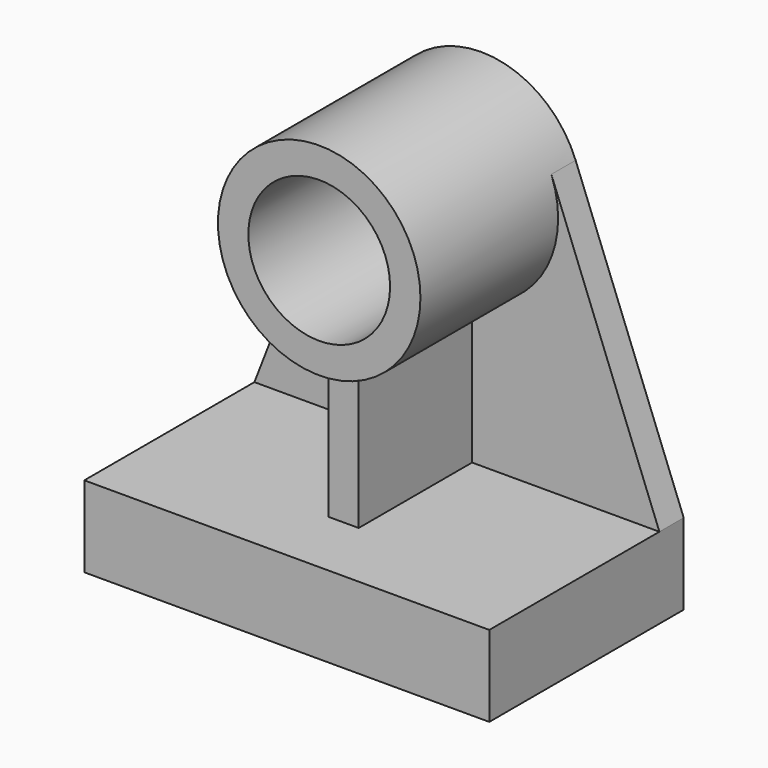
from build123d import *

# Parameters (mm, degrees)
F0_R     = 63.5
F0_R_2   = 44.45
F1_DEPTH = 127
F3_DEPTH = 19.05
F4_W     = 254
F4_H     = 50.8
F5_DEPTH = 152.4
F7_DEPTH = 88.9


with BuildPart() as f1:
    # F0 (on Front) → F1 (new body)
    with BuildSketch(Plane.XZ):
        Circle(F0_R)
        Circle(F0_R_2, mode=Mode.SUBTRACT)
    extrude(amount=F1_DEPTH)

    # F2 (on Front) → F3 (join)
    with BuildSketch(Plane.XZ):
        with BuildLine():
            ThreePointArc((59.227747, 22.898122), (0, -63.5), (-59.227747, 22.898122))
            Line((-59.227747, 22.898122), (-127, -152.4))
            Line((-127, -152.4), (127, -152.4))
            Line((127, -152.4), (59.227747, 22.898122))
        make_face()
    extrude(amount=F3_DEPTH)

    # F4 (on Front) → F5 (join)
    with BuildSketch(Plane.XZ):
        with Locations((0, -177.8)):
            Rectangle(F4_W, F4_H)
    extrude(amount=F5_DEPTH)

    # F6 (on face) → F7 (join)
    with BuildSketch(Plane.XZ.offset(19.05)):
        with BuildLine():
            ThreePointArc((9.525, -62.781561), (0, -63.5), (-9.525, -62.781561))
            Line((-9.525, -62.781561), (-9.525, -152.4))
            Line((-9.525, -152.4), (9.525, -152.4))
            Line((9.525, -152.4), (9.525, -62.781561))
        make_face()
    extrude(amount=F7_DEPTH)


solid = f1.part
